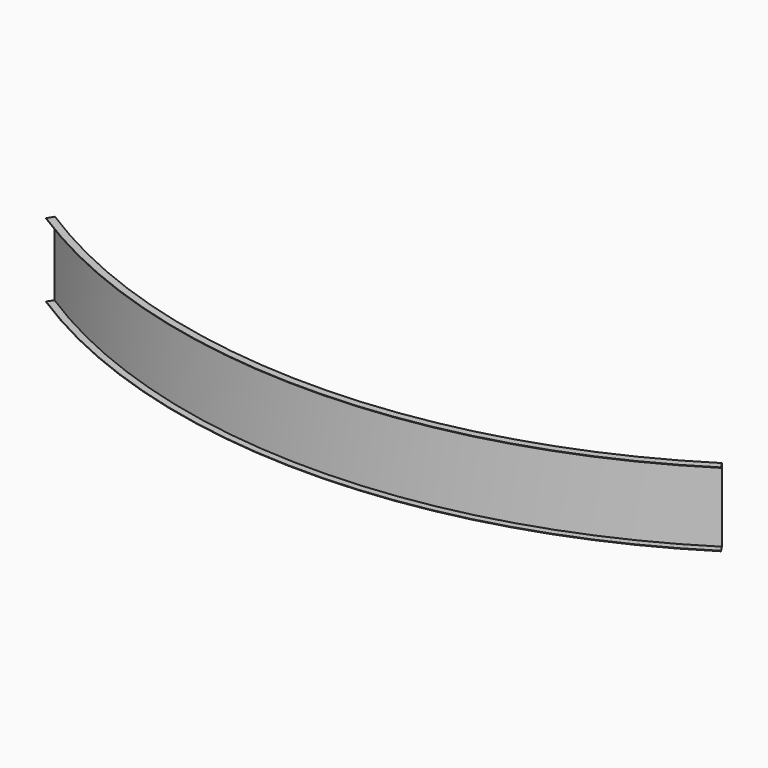
from build123d import *

# Parameters (mm, degrees)
F2_ANGLE = 65


with BuildPart() as f2:
    # F0 (on Right) → F2 (revolve, symmetric)
    with BuildSketch(Plane.YZ) as f2_sk:
        Polygon((-50.8, 0), (0, 0), (0, 508), (-50.8, 508), (-50.8, 504.825), (-3.175, 504.825), (-3.175, 3.175), (-50.8, 3.175), align=None)
    revolve(axis=Axis((0, 4267.2, 5661.746735), (0, 0, 1)), revolution_arc=F2_ANGLE / 2)
    revolve(f2_sk.sketch, axis=Axis((0, 4267.2, 5661.746735), (0, 0, -1)), revolution_arc=F2_ANGLE / 2)


solid = f2.part
